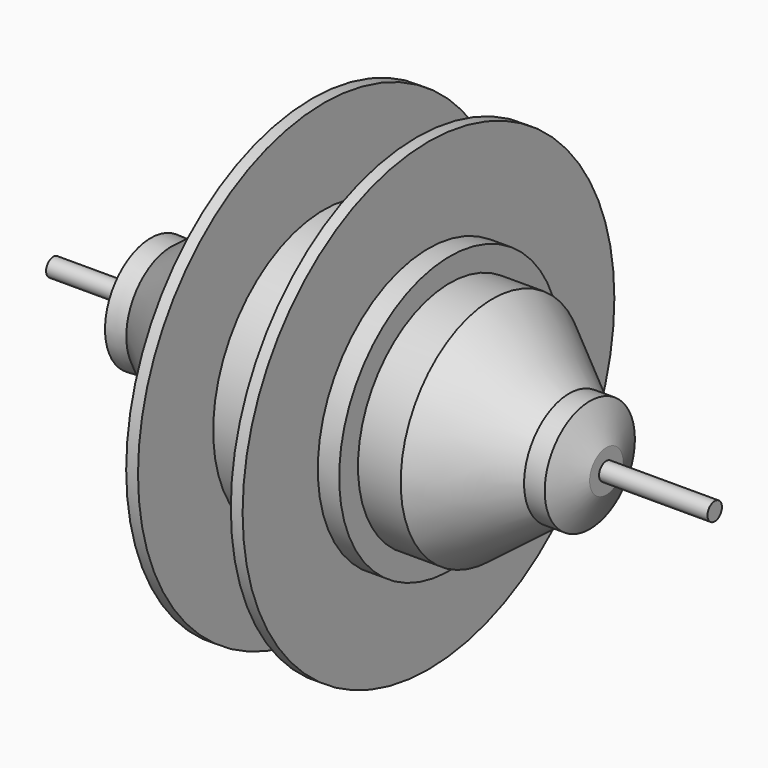
from build123d import *

# Parameters (mm, degrees)
F1_R          = 1.905
F2_DEPTH      = 82.55
F2_DEPTH_BACK = 57.15
F3_DEPTH      = 0.762


with BuildPart() as f2:
    # F1 (on Right) → F2 (new body, two sides)
    with BuildSketch(Plane.YZ) as f2_sk:
        Circle(F1_R)
    extrude(amount=F2_DEPTH)
    extrude(f2_sk.sketch, amount=-F2_DEPTH_BACK)

    # F1 (on Right) → F3 (join)
    with BuildSketch(Plane.YZ):
        Circle(F1_R)
    extrude(amount=F3_DEPTH)

    # F0 (on Top) → F4 (revolve)
    with BuildSketch(Plane.XY):
        Polygon((-7.007087, 24.25808), (-16.030946, 24.25808), (-32.2088, 11.899154), (-36.560226, 12.075871), (-39.70601, 4.431527), (-39.70601, 0), (-35.594656, 0), (59.655344, 0), (59.655344, 4.410799), (56.168538, 11.90574), (51.813526, 11.90574), (35.630643, 24.25808), (26.606784, 24.25808), (26.606784, 29.221201), (22.094855, 29.221201), (22.094855, 49.07369), (19.599697, 49.07369), (19.599697, 29.221201), (0, 29.221201), (0, 49.07369), (-2.495158, 49.07369), (-2.495158, 29.221201), (-7.007087, 29.221201), align=None)
    revolve(axis=Axis((0, 0, 0), (-1, 0, 0)))


solid = f2.part
